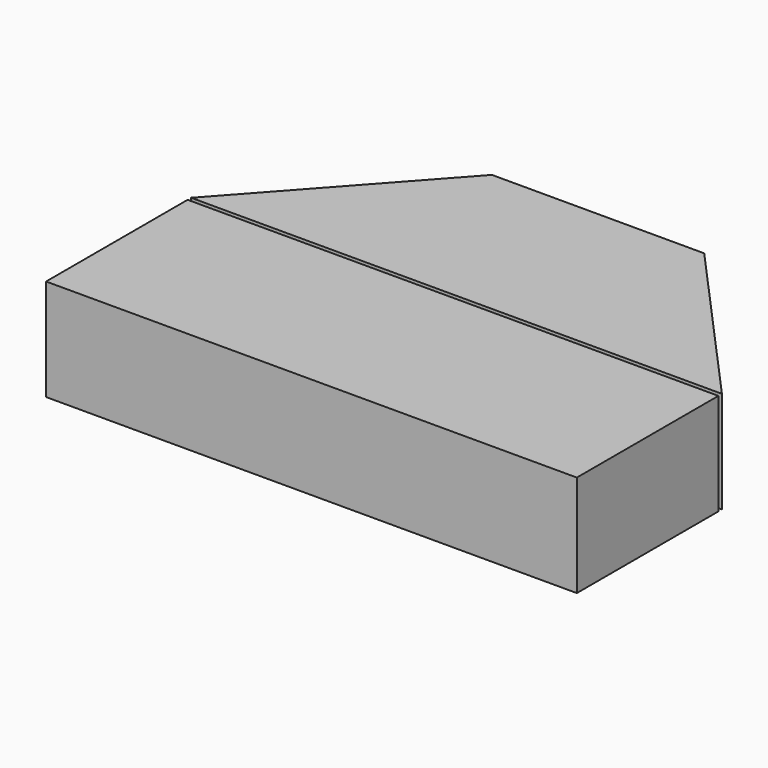
from build123d import *

# Parameters (mm, degrees)
F0_W     = 762
F0_H     = 254
F1_DEPTH = 146.05
F3_DEPTH = 146.05


with BuildPart() as f1:
    # F0 (on Top) → F1 (new body)
    with BuildSketch(Plane.XY):
        with Locations((18.138842, -20.108573)):
            Rectangle(F0_W, F0_H)
    extrude(amount=F1_DEPTH)


with BuildPart() as f3:
    # F2 (on Top) → F3 (new body)
    with BuildSketch(Plane.XY):
        Polygon((-134.261158, 367.241427), (-362.861158, 113.241427), (399.138842, 113.241427), (170.538842, 367.241427), align=None)
    extrude(amount=F3_DEPTH)


solid = Compound([f1.part, f3.part])
